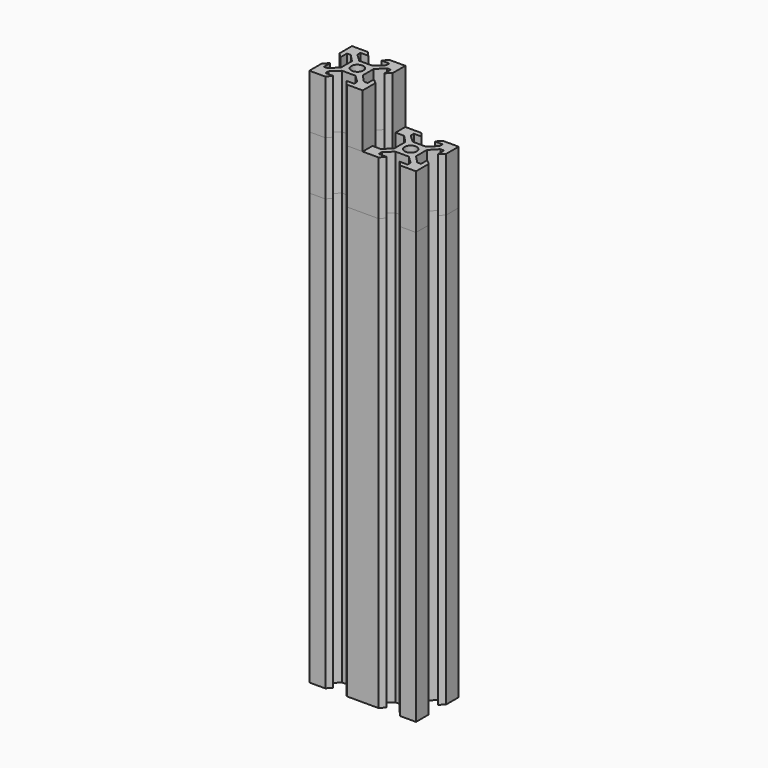
from build123d import *

# Parameters (mm, degrees)
F1_R     = 2.25
F2_DEPTH = 180
F3_DEPTH = 180
F4_DEPTH = 200
F5_R     = 2.25
F6_DEPTH = 180
F7_DEPTH = 160


with BuildPart() as f2:
    # F1 (on Top) → F2 (new body)
    with BuildSketch(Plane.XY):
        Polygon((2.4927553022, 3.9951533137), (-2.4927553022, 3.9951533137), (-5.3563338675, 6.7175144213), (-5.3563338675, 8.1317279836), (-2.4406189504, 8.1317279836), (-3.9951533137, 9.8994949366), (-9.8994949366, 9.8994949366), (-9.8994949366, 3.9951533137), (-8.1317279836, 2.4406189504), (-8.1317279836, 5.3563338675), (-6.7175144213, 5.3563338675), (-3.9951533137, 2.4927553022), (-3.9951533137, -2.4927553022), (-6.7175144213, -5.3563338675), (-8.1317279836, -5.3563338675), (-8.1317279836, -2.4406189504), (-9.8994949366, -3.9951533137), (-9.8994949366, -9.8994949366), (-3.9951533137, -9.8994949366), (-2.4406189504, -8.1317279836), (-5.3563338675, -8.1317279836), (-5.3563338675, -6.7175144213), (-2.4927553022, -3.9951533137), (2.4927553022, -3.9951533137), (5.3563338675, -6.7175144213), (5.3563338675, -8.1317279836), (2.4406189504, -8.1317279836), (3.9951533137, -9.8994949366), (9.8994949366, -9.8994949366), (9.8994949366, -3.9951533137), (8.1317279836, -2.4406189504), (8.1317279836, -5.3563338675), (6.7175144213, -5.3563338675), (3.9951533137, -2.4927553022), (3.9951533137, 2.4927553022), (6.7175144213, 5.3563338675), (8.1317279836, 5.3563338675), (8.1317279836, 2.4406189504), (9.8994949366, 3.9951533137), (9.8994949366, 9.8994949366), (3.9951533137, 9.8994949366), (2.4406189504, 8.1317279836), (5.3563338675, 8.1317279836), (5.3563338675, 6.7175144213), align=None)
        Circle(F1_R, mode=Mode.SUBTRACT)
    extrude(amount=F2_DEPTH)


with BuildPart() as f3:
    # F1 (on Top) → F3 (new body)
    with BuildSketch(Plane.XY):
        Polygon((2.4927553022, 3.9951533137), (-2.4927553022, 3.9951533137), (-5.3563338675, 6.7175144213), (-5.3563338675, 8.1317279836), (-2.4406189504, 8.1317279836), (-3.9951533137, 9.8994949366), (-9.8994949366, 9.8994949366), (-9.8994949366, 3.9951533137), (-8.1317279836, 2.4406189504), (-8.1317279836, 5.3563338675), (-6.7175144213, 5.3563338675), (-3.9951533137, 2.4927553022), (-3.9951533137, -2.4927553022), (-6.7175144213, -5.3563338675), (-8.1317279836, -5.3563338675), (-8.1317279836, -2.4406189504), (-9.8994949366, -3.9951533137), (-9.8994949366, -9.8994949366), (-3.9951533137, -9.8994949366), (-2.4406189504, -8.1317279836), (-5.3563338675, -8.1317279836), (-5.3563338675, -6.7175144213), (-2.4927553022, -3.9951533137), (2.4927553022, -3.9951533137), (5.3563338675, -6.7175144213), (5.3563338675, -8.1317279836), (2.4406189504, -8.1317279836), (3.9951533137, -9.8994949366), (9.8994949366, -9.8994949366), (9.8994949366, -3.9951533137), (8.1317279836, -2.4406189504), (8.1317279836, -5.3563338675), (6.7175144213, -5.3563338675), (3.9951533137, -2.4927553022), (3.9951533137, 2.4927553022), (6.7175144213, 5.3563338675), (8.1317279836, 5.3563338675), (8.1317279836, 2.4406189504), (9.8994949366, 3.9951533137), (9.8994949366, 9.8994949366), (3.9951533137, 9.8994949366), (2.4406189504, 8.1317279836), (5.3563338675, 8.1317279836), (5.3563338675, 6.7175144213), align=None)
        Circle(F1_R, mode=Mode.SUBTRACT)
    extrude(amount=F3_DEPTH)


with BuildPart() as f4:
    # F1 (on Top) → F4 (new body)
    with BuildSketch(Plane.XY):
        Polygon((2.4927553022, 3.9951533137), (-2.4927553022, 3.9951533137), (-5.3563338675, 6.7175144213), (-5.3563338675, 8.1317279836), (-2.4406189504, 8.1317279836), (-3.9951533137, 9.8994949366), (-9.8994949366, 9.8994949366), (-9.8994949366, 3.9951533137), (-8.1317279836, 2.4406189504), (-8.1317279836, 5.3563338675), (-6.7175144213, 5.3563338675), (-3.9951533137, 2.4927553022), (-3.9951533137, -2.4927553022), (-6.7175144213, -5.3563338675), (-8.1317279836, -5.3563338675), (-8.1317279836, -2.4406189504), (-9.8994949366, -3.9951533137), (-9.8994949366, -9.8994949366), (-3.9951533137, -9.8994949366), (-2.4406189504, -8.1317279836), (-5.3563338675, -8.1317279836), (-5.3563338675, -6.7175144213), (-2.4927553022, -3.9951533137), (2.4927553022, -3.9951533137), (5.3563338675, -6.7175144213), (5.3563338675, -8.1317279836), (2.4406189504, -8.1317279836), (3.9951533137, -9.8994949366), (9.8994949366, -9.8994949366), (9.8994949366, -3.9951533137), (8.1317279836, -2.4406189504), (8.1317279836, -5.3563338675), (6.7175144213, -5.3563338675), (3.9951533137, -2.4927553022), (3.9951533137, 2.4927553022), (6.7175144213, 5.3563338675), (8.1317279836, 5.3563338675), (8.1317279836, 2.4406189504), (9.8994949366, 3.9951533137), (9.8994949366, 9.8994949366), (3.9951533137, 9.8994949366), (2.4406189504, 8.1317279836), (5.3563338675, 8.1317279836), (5.3563338675, 6.7175144213), align=None)
        Circle(F1_R, mode=Mode.SUBTRACT)
    extrude(amount=F4_DEPTH)


with BuildPart() as f6:
    # F5 (on Top) → F6 (new body)
    with BuildSketch(Plane.XY):
        Polygon((9.8994949366, 9.8994949366), (3.9951533137, 9.8994949366), (2.4406189504, 8.1317279836), (5.3563338675, 8.1317279836), (5.3563338675, 6.7175144213), (2.4927553022, 3.9951533137), (-2.4927553022, 3.9951533137), (-5.3563338675, 6.7175144213), (-5.3563338675, 8.1317279836), (-2.4406189504, 8.1317279836), (-3.9951533137, 9.8994949366), (-9.8994949366, 9.8994949366), (-9.8994949366, 3.9951533137), (-8.1317279836, 2.4406189504), (-8.1317279836, 5.3563338675), (-6.7175144213, 5.3563338675), (-3.9951533137, 2.4927553022), (-3.9951533137, -2.4927553022), (-6.7175144213, -5.3563338675), (-8.1317279836, -5.3563338675), (-8.1317279836, -2.4406189504), (-9.8994949366, -3.9951533137), (-9.8994949366, -9.8994949366), (-3.9951533137, -9.8994949366), (-2.4406189504, -8.1317279836), (-5.3563338675, -8.1317279836), (-5.3563338675, -6.7175144213), (-2.4927553022, -3.9951533137), (2.4927553022, -3.9951533137), (5.3563338675, -6.7175144213), (5.3563338675, -8.1317279836), (2.4406189504, -8.1317279836), (3.9951533137, -9.8994949366), (9.8994949366, -9.8994949366), (15.8038365595, -9.8994949366), (17.3583709228, -8.1317279836), (14.4426560057, -8.1317279836), (14.4426560057, -6.7175144213), (17.306234571, -3.9951533137), (22.2917451755, -3.9951533137), (25.1553237407, -6.7175144213), (25.1553237407, -8.1317279836), (22.2396088236, -8.1317279836), (23.7941431869, -9.8994949366), (29.6984848098, -9.8994949366), (29.6984848098, -3.9951533137), (27.9307178569, -2.4406189504), (27.9307178569, -5.3563338675), (26.5165042945, -5.3563338675), (23.7941431869, -2.4927553022), (23.7941431869, 2.4927553022), (26.5165042945, 5.3563338675), (27.9307178569, 5.3563338675), (27.9307178569, 2.4406189504), (29.6984848098, 3.9951533137), (29.6984848098, 9.8994949366), (23.7941431869, 9.8994949366), (22.2396088236, 8.1317279836), (25.1553237407, 8.1317279836), (25.1553237407, 6.7175144213), (22.2917451755, 3.9951533137), (17.306234571, 3.9951533137), (14.4426560057, 6.7175144213), (14.4426560057, 8.1317279836), (17.3583709228, 8.1317279836), (15.8038365595, 9.8994949366), align=None)
        Polygon((3.9951533137, 2.4927553022), (6.7175144213, 5.3563338675), (13.081475452, 5.3563338675), (15.8038365595, 2.4927553022), (15.8038365595, -2.4927553022), (13.081475452, -5.3563338675), (6.7175144213, -5.3563338675), (3.9951533137, -2.4927553022), align=None, mode=Mode.SUBTRACT)
        Circle(F5_R, mode=Mode.SUBTRACT)
        with Locations((19.7989898732, 0)):
            Circle(F5_R, mode=Mode.SUBTRACT)
    extrude(amount=F6_DEPTH)


with BuildPart() as f7:
    # F5 (on Top) → F7 (new body)
    with BuildSketch(Plane.XY):
        Polygon((9.8994949366, 9.8994949366), (3.9951533137, 9.8994949366), (2.4406189504, 8.1317279836), (5.3563338675, 8.1317279836), (5.3563338675, 6.7175144213), (2.4927553022, 3.9951533137), (-2.4927553022, 3.9951533137), (-5.3563338675, 6.7175144213), (-5.3563338675, 8.1317279836), (-2.4406189504, 8.1317279836), (-3.9951533137, 9.8994949366), (-9.8994949366, 9.8994949366), (-9.8994949366, 3.9951533137), (-8.1317279836, 2.4406189504), (-8.1317279836, 5.3563338675), (-6.7175144213, 5.3563338675), (-3.9951533137, 2.4927553022), (-3.9951533137, -2.4927553022), (-6.7175144213, -5.3563338675), (-8.1317279836, -5.3563338675), (-8.1317279836, -2.4406189504), (-9.8994949366, -3.9951533137), (-9.8994949366, -9.8994949366), (-3.9951533137, -9.8994949366), (-2.4406189504, -8.1317279836), (-5.3563338675, -8.1317279836), (-5.3563338675, -6.7175144213), (-2.4927553022, -3.9951533137), (2.4927553022, -3.9951533137), (5.3563338675, -6.7175144213), (5.3563338675, -8.1317279836), (2.4406189504, -8.1317279836), (3.9951533137, -9.8994949366), (9.8994949366, -9.8994949366), (15.8038365595, -9.8994949366), (17.3583709228, -8.1317279836), (14.4426560057, -8.1317279836), (14.4426560057, -6.7175144213), (17.306234571, -3.9951533137), (22.2917451755, -3.9951533137), (25.1553237407, -6.7175144213), (25.1553237407, -8.1317279836), (22.2396088236, -8.1317279836), (23.7941431869, -9.8994949366), (29.6984848098, -9.8994949366), (29.6984848098, -3.9951533137), (27.9307178569, -2.4406189504), (27.9307178569, -5.3563338675), (26.5165042945, -5.3563338675), (23.7941431869, -2.4927553022), (23.7941431869, 2.4927553022), (26.5165042945, 5.3563338675), (27.9307178569, 5.3563338675), (27.9307178569, 2.4406189504), (29.6984848098, 3.9951533137), (29.6984848098, 9.8994949366), (23.7941431869, 9.8994949366), (22.2396088236, 8.1317279836), (25.1553237407, 8.1317279836), (25.1553237407, 6.7175144213), (22.2917451755, 3.9951533137), (17.306234571, 3.9951533137), (14.4426560057, 6.7175144213), (14.4426560057, 8.1317279836), (17.3583709228, 8.1317279836), (15.8038365595, 9.8994949366), align=None)
        Polygon((3.9951533137, 2.4927553022), (6.7175144213, 5.3563338675), (13.081475452, 5.3563338675), (15.8038365595, 2.4927553022), (15.8038365595, -2.4927553022), (13.081475452, -5.3563338675), (6.7175144213, -5.3563338675), (3.9951533137, -2.4927553022), align=None, mode=Mode.SUBTRACT)
        Circle(F5_R, mode=Mode.SUBTRACT)
        with Locations((19.7989898732, 0)):
            Circle(F5_R, mode=Mode.SUBTRACT)
    extrude(amount=F7_DEPTH)


solid = Compound([f2.part, f3.part, f4.part, f6.part, f7.part])
